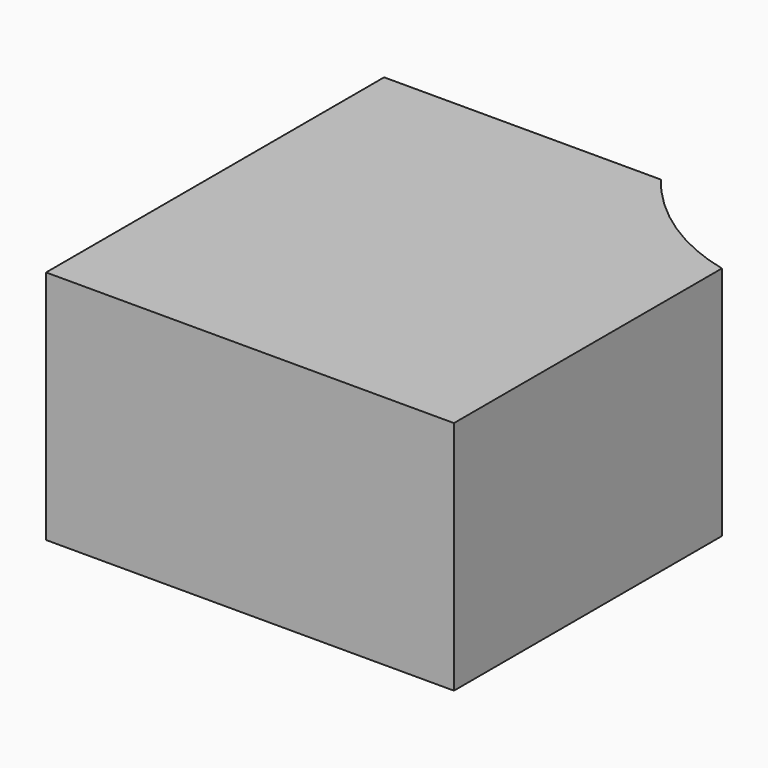
from build123d import *

# Parameters (mm, degrees)
F1_DEPTH = 25


with BuildPart() as f1:
    # F0 (on Top) → F1 (new body)
    with BuildSketch(Plane.XY):
        with BuildLine():
            Line((-60.8669331495, 26.0428432375), (-90.2463570237, 26.0428432375))
            Line((-90.2463570237, 26.0428432375), (-90.2463570237, -18.7968760729))
            Line((-90.2463570237, -18.7968760729), (-46.9635725021, -18.7968760729))
            Line((-46.9635725021, -18.7968760729), (-46.9635725021, 16.7493853877))
            add(Edge.make_bspline(
                [(-46.9635725021, 16.7493853877), (-52.6698276977, 18.086001017), (-57.6044203065, 21.7772811939), (-60.8669331495, 26.0428432375)],
                knots=[0.838292977, 0.838292977, 0.838292977, 0.838292977, 0.9287607877, 0.9287607877, 0.9287607877, 0.9287607877], degree=3))
        make_face()
    extrude(amount=F1_DEPTH)


solid = f1.part
